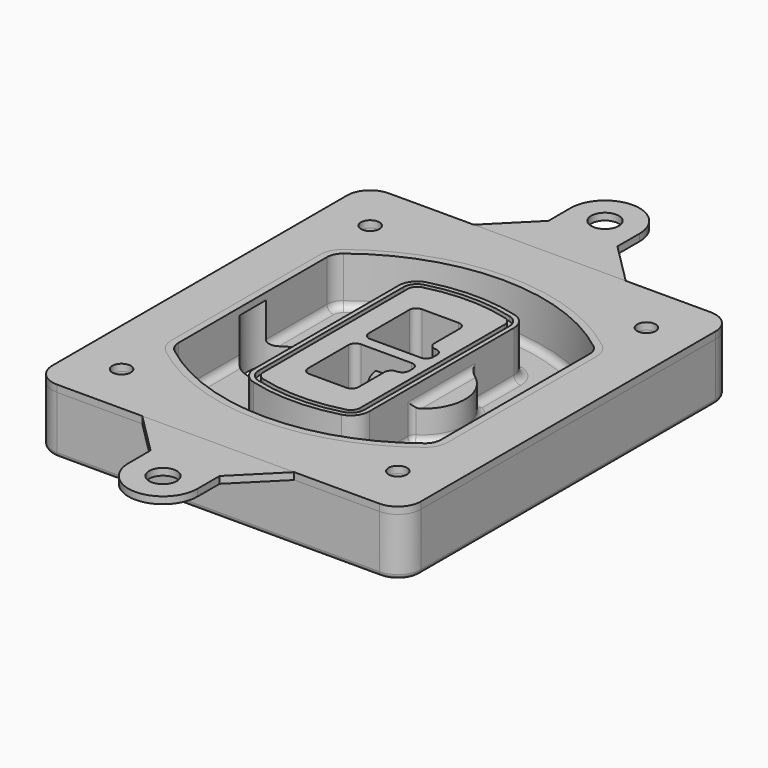
from build123d import *

# Parameters (mm, degrees)
F0_R      = 4
F1_DEPTH  = 25
F2_DEPTH  = 3
F3_DEPTH  = 18
F5_DEPTH  = 21
F6_DEPTH  = 2
F8_DEPTH  = 20
F9_DEPTH  = 16
F10_DEPTH = 25
F7_R      = 6
F7_R_2    = 4
F11_DEPTH = 6
F13_DEPTH = 9
F14_R     = 3
F15_R     = 2
F17_DEPTH = 3
F16_R     = 6
F18_DEPTH = 3


with BuildPart() as f1:
    # F0 (on Top) → F1 (new body)
    with BuildSketch(Plane.XY):
        with BuildLine():
            ThreePointArc((-80, -80), (-77.0710678119, -87.0710678119), (-70, -90))
            Line((-70, -90), (70, -90))
            ThreePointArc((70, -90), (77.0710678119, -87.0710678119), (80, -80))
            Line((80, -80), (80, 80))
            ThreePointArc((80, 80), (77.0710678119, 87.0710678119), (70, 90))
            Line((70, 90), (-70, 90))
            ThreePointArc((-70, 90), (-77.0710678119, 87.0710678119), (-80, 80))
            Line((-80, 80), (-80, -80))
        make_face()
        with Locations((-60, -67.5)):
            Circle(F0_R, mode=Mode.SUBTRACT)
        with Locations((60, -67.5)):
            Circle(F0_R, mode=Mode.SUBTRACT)
        with Locations((-60, 67.5)):
            Circle(F0_R, mode=Mode.SUBTRACT)
        with BuildLine():
            ThreePointArc((-64, 40.2934422872), (-62.5820384798, 46.4328484224), (-58.6153846154, 51.3286200352))
            ThreePointArc((-58.6153846154, 51.3286200352), (0, 71.5), (58.6153846154, 51.3286200352))
            ThreePointArc((58.6153846154, 51.3286200352), (62.5820384798, 46.4328484224), (64, 40.2934422872))
            Line((64, 40.2934422872), (64, -40.2934422872))
            ThreePointArc((64, -40.2934422872), (62.5820384798, -46.4328484224), (58.6153846154, -51.3286200352))
            ThreePointArc((58.6153846154, -51.3286200352), (0, -71.5), (-58.6153846154, -51.3286200352))
            ThreePointArc((-58.6153846154, -51.3286200352), (-62.5820384798, -46.4328484224), (-64, -40.2934422872))
            Line((-64, -40.2934422872), (-64, 40.2934422872))
        make_face(mode=Mode.SUBTRACT)
        with Locations((60, 67.5)):
            Circle(F0_R, mode=Mode.SUBTRACT)
        with BuildLine():
            ThreePointArc((58.6153846154, 51.3286200352), (0, 71.5), (-58.6153846154, 51.3286200352))
            ThreePointArc((-58.6153846154, 51.3286200352), (-62.5820384798, 46.4328484224), (-64, 40.2934422872))
            Line((-64, 40.2934422872), (-64, -40.2934422872))
            ThreePointArc((-64, -40.2934422872), (-62.5820384798, -46.4328484224), (-58.6153846154, -51.3286200352))
            ThreePointArc((-58.6153846154, -51.3286200352), (0, -71.5), (58.6153846154, -51.3286200352))
            ThreePointArc((58.6153846154, -51.3286200352), (62.5820384798, -46.4328484224), (64, -40.2934422872))
            Line((64, -40.2934422872), (64, 40.2934422872))
            ThreePointArc((64, 40.2934422872), (62.5820384798, 46.4328484224), (58.6153846154, 51.3286200352))
        make_face()
        with BuildLine():
            Line((-60, -40.2934422872), (-60, 40.2934422872))
            ThreePointArc((-60, 40.2934422872), (-58.9871703427, 44.6787323838), (-56.1538461538, 48.1757121072))
            ThreePointArc((-56.1538461538, 48.1757121072), (0, 67.5), (56.1538461538, 48.1757121072))
            ThreePointArc((56.1538461538, 48.1757121072), (58.9871703427, 44.6787323838), (60, 40.2934422872))
            Line((60, 40.2934422872), (60, -40.2934422872))
            ThreePointArc((60, -40.2934422872), (58.9871703427, -44.6787323838), (56.1538461538, -48.1757121072))
            ThreePointArc((56.1538461538, -48.1757121072), (0, -67.5), (-56.1538461538, -48.1757121072))
            ThreePointArc((-56.1538461538, -48.1757121072), (-58.9871703427, -44.6787323838), (-60, -40.2934422872))
        make_face(mode=Mode.SUBTRACT)
        with BuildLine():
            ThreePointArc((-56.1538461538, 48.1757121072), (-58.9871703427, 44.6787323838), (-60, 40.2934422872))
            Line((-60, 40.2934422872), (-60, -40.2934422872))
            ThreePointArc((-60, -40.2934422872), (-58.9871703427, -44.6787323838), (-56.1538461538, -48.1757121072))
            ThreePointArc((-56.1538461538, -48.1757121072), (0, -67.5), (56.1538461538, -48.1757121072))
            ThreePointArc((56.1538461538, -48.1757121072), (58.9871703427, -44.6787323838), (60, -40.2934422872))
            Line((60, -40.2934422872), (60, 40.2934422872))
            ThreePointArc((60, 40.2934422872), (58.9871703427, 44.6787323838), (56.1538461538, 48.1757121072))
            ThreePointArc((56.1538461538, 48.1757121072), (0, 67.5), (-56.1538461538, 48.1757121072))
        make_face()
        with BuildLine():
            ThreePointArc((54.3076923077, 45.8110311612), (56.2910192399, 43.3631453548), (57, 40.2934422872))
            Line((57, 40.2934422872), (57, -40.2934422872))
            ThreePointArc((57, -40.2934422872), (56.2910192399, -43.3631453548), (54.3076923077, -45.8110311612))
            ThreePointArc((54.3076923077, -45.8110311612), (0, -64.5), (-54.3076923077, -45.8110311612))
            ThreePointArc((-54.3076923077, -45.8110311612), (-56.2910192399, -43.3631453548), (-57, -40.2934422872))
            Line((-57, -40.2934422872), (-57, 40.2934422872))
            ThreePointArc((-57, 40.2934422872), (-56.2910192399, 43.3631453548), (-54.3076923077, 45.8110311612))
            ThreePointArc((-54.3076923077, 45.8110311612), (0, 64.5), (54.3076923077, 45.8110311612))
        make_face(mode=Mode.SUBTRACT)
        with BuildLine():
            Line((57, -40.2934422872), (57, 40.2934422872))
            ThreePointArc((57, 40.2934422872), (56.2910192399, 43.3631453548), (54.3076923077, 45.8110311612))
            ThreePointArc((54.3076923077, 45.8110311612), (0, 64.5), (-54.3076923077, 45.8110311612))
            ThreePointArc((-54.3076923077, 45.8110311612), (-56.2910192399, 43.3631453548), (-57, 40.2934422872))
            Line((-57, 40.2934422872), (-57, -40.2934422872))
            ThreePointArc((-57, -40.2934422872), (-56.2910192399, -43.3631453548), (-54.3076923077, -45.8110311612))
            ThreePointArc((-54.3076923077, -45.8110311612), (0, -64.5), (54.3076923077, -45.8110311612))
            ThreePointArc((54.3076923077, -45.8110311612), (56.2910192399, -43.3631453548), (57, -40.2934422872))
        make_face()
    extrude(amount=-F1_DEPTH)

    # F0 (on Top) → F2 (join)
    with BuildSketch(Plane.XY):
        with BuildLine():
            ThreePointArc((-56.1538461538, 48.1757121072), (-58.9871703427, 44.6787323838), (-60, 40.2934422872))
            Line((-60, 40.2934422872), (-60, -40.2934422872))
            ThreePointArc((-60, -40.2934422872), (-58.9871703427, -44.6787323838), (-56.1538461538, -48.1757121072))
            ThreePointArc((-56.1538461538, -48.1757121072), (0, -67.5), (56.1538461538, -48.1757121072))
            ThreePointArc((56.1538461538, -48.1757121072), (58.9871703427, -44.6787323838), (60, -40.2934422872))
            Line((60, -40.2934422872), (60, 40.2934422872))
            ThreePointArc((60, 40.2934422872), (58.9871703427, 44.6787323838), (56.1538461538, 48.1757121072))
            ThreePointArc((56.1538461538, 48.1757121072), (0, 67.5), (-56.1538461538, 48.1757121072))
        make_face()
        with BuildLine():
            ThreePointArc((54.3076923077, 45.8110311612), (56.2910192399, 43.3631453548), (57, 40.2934422872))
            Line((57, 40.2934422872), (57, -40.2934422872))
            ThreePointArc((57, -40.2934422872), (56.2910192399, -43.3631453548), (54.3076923077, -45.8110311612))
            ThreePointArc((54.3076923077, -45.8110311612), (0, -64.5), (-54.3076923077, -45.8110311612))
            ThreePointArc((-54.3076923077, -45.8110311612), (-56.2910192399, -43.3631453548), (-57, -40.2934422872))
            Line((-57, -40.2934422872), (-57, 40.2934422872))
            ThreePointArc((-57, 40.2934422872), (-56.2910192399, 43.3631453548), (-54.3076923077, 45.8110311612))
            ThreePointArc((-54.3076923077, 45.8110311612), (0, 64.5), (54.3076923077, 45.8110311612))
        make_face(mode=Mode.SUBTRACT)
    extrude(amount=F2_DEPTH)

    # F0 (on Top) → F3 (cut)
    with BuildSketch(Plane.XY):
        with BuildLine():
            Line((57, -40.2934422872), (57, 40.2934422872))
            ThreePointArc((57, 40.2934422872), (56.2910192399, 43.3631453548), (54.3076923077, 45.8110311612))
            ThreePointArc((54.3076923077, 45.8110311612), (0, 64.5), (-54.3076923077, 45.8110311612))
            ThreePointArc((-54.3076923077, 45.8110311612), (-56.2910192399, 43.3631453548), (-57, 40.2934422872))
            Line((-57, 40.2934422872), (-57, -40.2934422872))
            ThreePointArc((-57, -40.2934422872), (-56.2910192399, -43.3631453548), (-54.3076923077, -45.8110311612))
            ThreePointArc((-54.3076923077, -45.8110311612), (0, -64.5), (54.3076923077, -45.8110311612))
            ThreePointArc((54.3076923077, -45.8110311612), (56.2910192399, -43.3631453548), (57, -40.2934422872))
        make_face()
    extrude(amount=-F3_DEPTH, mode=Mode.SUBTRACT)

    # F4 (on face) → F5 (join, through all)
    with BuildSketch(Plane.XY.offset(3)):
        with BuildLine():
            ThreePointArc((-25, -39.2465276821), (-23.3511545998, -44.1109737193), (-19.0842911877, -46.9702398883))
            ThreePointArc((-19.0842911877, -46.9702398883), (0, -49.5), (19.0842911877, -46.9702398883))
            ThreePointArc((19.0842911877, -46.9702398883), (23.3511545998, -44.1109737193), (25, -39.2465276821))
            Line((25, -39.2465276821), (25, 39.2465276821))
            ThreePointArc((25, 39.2465276821), (23.3511545998, 44.1109737193), (19.0842911877, 46.9702398883))
            ThreePointArc((19.0842911877, 46.9702398883), (0, 49.5), (-19.0842911877, 46.9702398883))
            ThreePointArc((-19.0842911877, 46.9702398883), (-23.3511545998, 44.1109737193), (-25, 39.2465276821))
            Line((-25, 39.2465276821), (-25, -39.2465276821))
        make_face()
        with BuildLine():
            ThreePointArc((18.5632183908, 45.0393118368), (21.7633659499, 42.89486221), (23, 39.2465276821))
            Line((23, 39.2465276821), (23, -39.2465276821))
            ThreePointArc((23, -39.2465276821), (21.7633659499, -42.89486221), (18.5632183908, -45.0393118368))
            ThreePointArc((18.5632183908, -45.0393118368), (0, -47.5), (-18.5632183908, -45.0393118368))
            ThreePointArc((-18.5632183908, -45.0393118368), (-21.7633659499, -42.89486221), (-23, -39.2465276821))
            Line((-23, -39.2465276821), (-23, 39.2465276821))
            ThreePointArc((-23, 39.2465276821), (-21.7633659499, 42.89486221), (-18.5632183908, 45.0393118368))
            ThreePointArc((-18.5632183908, 45.0393118368), (0, 47.5), (18.5632183908, 45.0393118368))
        make_face(mode=Mode.SUBTRACT)
        with BuildLine():
            Line((23, -39.2465276821), (23, 39.2465276821))
            ThreePointArc((23, 39.2465276821), (21.7633659499, 42.89486221), (18.5632183908, 45.0393118368))
            ThreePointArc((18.5632183908, 45.0393118368), (0, 47.5), (-18.5632183908, 45.0393118368))
            ThreePointArc((-18.5632183908, 45.0393118368), (-21.7633659499, 42.89486221), (-23, 39.2465276821))
            Line((-23, 39.2465276821), (-23, -39.2465276821))
            ThreePointArc((-23, -39.2465276821), (-21.7633659499, -42.89486221), (-18.5632183908, -45.0393118368))
            ThreePointArc((-18.5632183908, -45.0393118368), (0, -47.5), (18.5632183908, -45.0393118368))
            ThreePointArc((18.5632183908, -45.0393118368), (21.7633659499, -42.89486221), (23, -39.2465276821))
        make_face()
        with BuildLine():
            ThreePointArc((18.0421455939, 43.1083837852), (20.1755772999, 41.6787507007), (21, 39.2465276821))
            Line((21, 39.2465276821), (21, -39.2465276821))
            ThreePointArc((21, -39.2465276821), (20.1755772999, -41.6787507007), (18.0421455939, -43.1083837852))
            ThreePointArc((18.0421455939, -43.1083837852), (0, -45.5), (-18.0421455939, -43.1083837852))
            ThreePointArc((-18.0421455939, -43.1083837852), (-20.1755772999, -41.6787507007), (-21, -39.2465276821))
            Line((-21, -39.2465276821), (-21, 39.2465276821))
            ThreePointArc((-21, 39.2465276821), (-20.1755772999, 41.6787507007), (-18.0421455939, 43.1083837852))
            ThreePointArc((-18.0421455939, 43.1083837852), (0, 45.5), (18.0421455939, 43.1083837852))
        make_face(mode=Mode.SUBTRACT)
        with BuildLine():
            Line((21, -39.2465276821), (21, 39.2465276821))
            ThreePointArc((21, 39.2465276821), (20.1755772999, 41.6787507007), (18.0421455939, 43.1083837852))
            ThreePointArc((18.0421455939, 43.1083837852), (0, 45.5), (-18.0421455939, 43.1083837852))
            ThreePointArc((-18.0421455939, 43.1083837852), (-20.1755772999, 41.6787507007), (-21, 39.2465276821))
            Line((-21, 39.2465276821), (-21, -39.2465276821))
            ThreePointArc((-21, -39.2465276821), (-20.1755772999, -41.6787507007), (-18.0421455939, -43.1083837852))
            ThreePointArc((-18.0421455939, -43.1083837852), (0, -45.5), (18.0421455939, -43.1083837852))
            ThreePointArc((18.0421455939, -43.1083837852), (20.1755772999, -41.6787507007), (21, -39.2465276821))
        make_face()
        with BuildLine():
            Line((-8, -2.5), (14, -2.5))
            ThreePointArc((14, -2.5), (16.1213203436, -3.3786796564), (17, -5.5))
            Line((17, -5.5), (17, -7.5))
            ThreePointArc((17, -7.5), (16.1213203436, -9.6213203436), (14, -10.5))
            ThreePointArc((14, -10.5), (11.8786796564, -11.3786796564), (11, -13.5))
            Line((11, -13.5), (11, -27.5))
            ThreePointArc((11, -27.5), (10.1213203436, -29.6213203436), (8, -30.5))
            Line((8, -30.5), (-8, -30.5))
            ThreePointArc((-8, -30.5), (-10.1213203436, -29.6213203436), (-11, -27.5))
            Line((-11, -27.5), (-11, -5.5))
            ThreePointArc((-11, -5.5), (-10.1213203436, -3.3786796564), (-8, -2.5))
        make_face(mode=Mode.SUBTRACT)
        with BuildLine():
            ThreePointArc((-8, 2.5), (-10.1213203436, 3.3786796564), (-11, 5.5))
            Line((-11, 5.5), (-11, 27.5))
            ThreePointArc((-11, 27.5), (-10.1213203436, 29.6213203436), (-8, 30.5))
            Line((-8, 30.5), (8, 30.5))
            ThreePointArc((8, 30.5), (10.1213203436, 29.6213203436), (11, 27.5))
            Line((11, 27.5), (11, 13.5))
            ThreePointArc((11, 13.5), (11.8786796564, 11.3786796564), (14, 10.5))
            ThreePointArc((14, 10.5), (16.1213203436, 9.6213203436), (17, 7.5))
            Line((17, 7.5), (17, 5.5))
            ThreePointArc((17, 5.5), (16.1213203436, 3.3786796564), (14, 2.5))
            Line((14, 2.5), (-8, 2.5))
        make_face(mode=Mode.SUBTRACT)
    extrude(amount=-F5_DEPTH)

    # F4 (on face) → F6 (cut)
    with BuildSketch(Plane.XY.offset(3)):
        with BuildLine():
            Line((23, -39.2465276821), (23, 39.2465276821))
            ThreePointArc((23, 39.2465276821), (21.7633659499, 42.89486221), (18.5632183908, 45.0393118368))
            ThreePointArc((18.5632183908, 45.0393118368), (0, 47.5), (-18.5632183908, 45.0393118368))
            ThreePointArc((-18.5632183908, 45.0393118368), (-21.7633659499, 42.89486221), (-23, 39.2465276821))
            Line((-23, 39.2465276821), (-23, -39.2465276821))
            ThreePointArc((-23, -39.2465276821), (-21.7633659499, -42.89486221), (-18.5632183908, -45.0393118368))
            ThreePointArc((-18.5632183908, -45.0393118368), (0, -47.5), (18.5632183908, -45.0393118368))
            ThreePointArc((18.5632183908, -45.0393118368), (21.7633659499, -42.89486221), (23, -39.2465276821))
        make_face()
        with BuildLine():
            ThreePointArc((18.0421455939, 43.1083837852), (20.1755772999, 41.6787507007), (21, 39.2465276821))
            Line((21, 39.2465276821), (21, -39.2465276821))
            ThreePointArc((21, -39.2465276821), (20.1755772999, -41.6787507007), (18.0421455939, -43.1083837852))
            ThreePointArc((18.0421455939, -43.1083837852), (0, -45.5), (-18.0421455939, -43.1083837852))
            ThreePointArc((-18.0421455939, -43.1083837852), (-20.1755772999, -41.6787507007), (-21, -39.2465276821))
            Line((-21, -39.2465276821), (-21, 39.2465276821))
            ThreePointArc((-21, 39.2465276821), (-20.1755772999, 41.6787507007), (-18.0421455939, 43.1083837852))
            ThreePointArc((-18.0421455939, 43.1083837852), (0, 45.5), (18.0421455939, 43.1083837852))
        make_face(mode=Mode.SUBTRACT)
    extrude(amount=-F6_DEPTH, mode=Mode.SUBTRACT)

    # F7 (on face) → F8 (join)
    with BuildSketch(Plane(origin=(0, 0, -25), x_dir=(1, 0, 0), z_dir=(0, 0, -1))):
        with BuildLine():
            ThreePointArc((3.28842436, 0), (16.7567035675, 13.4682792075), (30.224982775, 0))
            Line((30.224982775, 0), (35.224982775, 0))
            ThreePointArc((35.224982775, 0), (16.7567035675, 18.4682792075), (-1.71157564, 0))
            Line((-1.71157564, 0), (3.28842436, 0))
        make_face()
        with BuildLine():
            Line((3.28842436, 0), (30.224982775, 0))
            ThreePointArc((30.224982775, 0), (16.7567035675, 13.4682792075), (3.28842436, 0))
        make_face()
        with BuildLine():
            ThreePointArc((3.28842436, 0), (16.7567035675, -13.4682792075), (30.224982775, 0))
            Line((30.224982775, 0), (3.28842436, 0))
        make_face()
        with BuildLine():
            Line((35.224982775, 0), (30.224982775, 0))
            ThreePointArc((30.224982775, 0), (16.7567035675, -13.4682792075), (3.28842436, 0))
            Line((3.28842436, 0), (-1.71157564, 0))
            ThreePointArc((-1.71157564, 0), (16.7567035675, -18.4682792075), (35.224982775, 0))
        make_face()
    extrude(amount=-F8_DEPTH)

    # F7 (on face) → F9 (cut)
    with BuildSketch(Plane(origin=(0, 0, -25), x_dir=(1, 0, 0), z_dir=(0, 0, -1))):
        with BuildLine():
            Line((3.28842436, 0), (30.224982775, 0))
            ThreePointArc((30.224982775, 0), (16.7567035675, 13.4682792075), (3.28842436, 0))
        make_face()
        with BuildLine():
            ThreePointArc((3.28842436, 0), (16.7567035675, -13.4682792075), (30.224982775, 0))
            Line((30.224982775, 0), (3.28842436, 0))
        make_face()
    extrude(amount=-F9_DEPTH, mode=Mode.SUBTRACT)

    # F7 (on face) → F10 (cut)
    with BuildSketch(Plane(origin=(0, 0, -25), x_dir=(1, 0, 0), z_dir=(0, 0, -1))):
        with BuildLine():
            Line((-59.0318229325, 0), (-32.0952645175, 0))
            ThreePointArc((-32.0952645175, 0), (-45.563543725, 13.4682792075), (-59.0318229325, 0))
        make_face()
        with BuildLine():
            ThreePointArc((-59.0318229325, 0), (-45.563543725, -13.4682792075), (-32.0952645175, 0))
            Line((-32.0952645175, 0), (-59.0318229325, 0))
        make_face()
    extrude(amount=-F10_DEPTH, mode=Mode.SUBTRACT)

    # F7 (on face) → F11 (cut)
    with BuildSketch(Plane(origin=(0, 0, -25), x_dir=(1, 0, 0), z_dir=(0, 0, -1))):
        with Locations((60, -67.5)):
            Circle(F7_R)
        with Locations((60, -67.5)):
            Circle(F7_R_2, mode=Mode.SUBTRACT)
        with Locations((60, -67.5)):
            Circle(F7_R)
        with Locations((60, -67.5)):
            Circle(F7_R_2, mode=Mode.SUBTRACT)
        with Locations((-60, -67.5)):
            Circle(F7_R)
        with Locations((-60, -67.5)):
            Circle(F7_R_2, mode=Mode.SUBTRACT)
        with Locations((-60, -67.5)):
            Circle(F7_R)
        with Locations((-60, -67.5)):
            Circle(F7_R_2, mode=Mode.SUBTRACT)
        with Locations((-60, 67.5)):
            Circle(F7_R)
        with Locations((-60, 67.5)):
            Circle(F7_R_2, mode=Mode.SUBTRACT)
        with Locations((-60, 67.5)):
            Circle(F7_R)
        with Locations((-60, 67.5)):
            Circle(F7_R_2, mode=Mode.SUBTRACT)
        with Locations((60, 67.5)):
            Circle(F7_R)
        with Locations((60, 67.5)):
            Circle(F7_R_2, mode=Mode.SUBTRACT)
        with Locations((60, 67.5)):
            Circle(F7_R)
        with Locations((60, 67.5)):
            Circle(F7_R_2, mode=Mode.SUBTRACT)
    extrude(amount=-F11_DEPTH, mode=Mode.SUBTRACT)

    # F12 (on face) → F13 (cut, through all)
    with BuildSketch(Plane(origin=(0, 0, -9), x_dir=(1, 0, 0), z_dir=(0, 0, -1))):
        with BuildLine():
            Line((11, 13.5), (11, 17.5481537753))
            ThreePointArc((11, 17.5481537753), (2.5696536419, 11.8239143813), (-1.5415842455, 2.5))
            Line((-1.5415842455, 2.5), (3.5224848595, 2.5))
            ThreePointArc((3.5224848595, 2.5), (6.1857188154, 8.3455872281), (11.2536447004, 12.2927168648))
            ThreePointArc((11.2536447004, 12.2927168648), (11.0640958889, 12.8831798879), (11, 13.5))
        make_face()
        with BuildLine():
            ThreePointArc((11.2536447004, -12.2927168648), (6.1857188154, -8.3455872281), (3.5224848595, -2.5))
            Line((3.5224848595, -2.5), (-1.5415842455, -2.5))
            ThreePointArc((-1.5415842455, -2.5), (2.5696536419, -11.8239143813), (11, -17.5481537753))
            Line((11, -17.5481537753), (11, -13.5))
            ThreePointArc((11, -13.5), (11.0640958889, -12.8831798879), (11.2536447004, -12.2927168648))
        make_face()
        with BuildLine():
            ThreePointArc((11.2536447004, 12.2927168648), (6.1857188154, 8.3455872281), (3.5224848595, 2.5))
            Line((3.5224848595, 2.5), (14, 2.5))
            ThreePointArc((14, 2.5), (16.1213203436, 3.3786796564), (17, 5.5))
            Line((17, 5.5), (17, 7.5))
            ThreePointArc((17, 7.5), (16.1213203436, 9.6213203436), (14, 10.5))
            ThreePointArc((14, 10.5), (12.3601599782, 10.9878446101), (11.2536447004, 12.2927168648))
        make_face()
        with BuildLine():
            Line((14, -2.5), (3.5224848595, -2.5))
            ThreePointArc((3.5224848595, -2.5), (6.1857188154, -8.3455872281), (11.2536447004, -12.2927168648))
            ThreePointArc((11.2536447004, -12.2927168648), (12.3601599782, -10.9878446101), (14, -10.5))
            ThreePointArc((14, -10.5), (16.1213203436, -9.6213203436), (17, -7.5))
            Line((17, -7.5), (17, -5.5))
            ThreePointArc((17, -5.5), (16.1213203436, -3.3786796564), (14, -2.5))
        make_face()
    extrude(amount=F13_DEPTH, mode=Mode.SUBTRACT)

    # F14
    f14_edges = [f1.edges().sort_by_distance(p)[0] for p in [
        (-57, -23.703476, -18),
        (-57, 23.703476, -18),
        (25, 0, -5),
        (25, 16.526506, -11.5),
        (25, -16.526506, -11.5),
        (25, -27.886517, -18),
        (35.224983, 0, -18),
    ]]
    fillet(f14_edges, radius=F14_R)

    # F15
    f15_edges = [f1.edges().sort_by_distance(p)[0] for p in [
        (0, -90, -25),
    ]]
    fillet(f15_edges, radius=F15_R)


with BuildPart() as f17:
    # F16 (on face) → F17 (new body, through all)
    with BuildSketch(Plane.XY):
        with BuildLine():
            Line((-33, 90), (0, 90))
            Line((0, 90), (33, 90))
            Line((33, 90), (15, 108))
            Line((15, 108), (15, 120))
            ThreePointArc((15, 120), (0, 135), (-15, 120))
            Line((-15, 120), (-15, 108))
            Line((-15, 108), (-33, 90))
        make_face()
        with BuildLine():
            ThreePointArc((0, 114), (-4.2426406871, 124.2426406871), (6, 120))
            ThreePointArc((6, 120), (4.2426406871, 115.7573593129), (0, 114))
        make_face(mode=Mode.SUBTRACT)
    extrude(amount=F17_DEPTH)


with BuildPart() as f17b:
    # F16 (on face) → F17, piece 2 (new body, through all)
    with BuildSketch(Plane.XY):
        with BuildLine():
            Line((15, -108), (33, -90))
            Line((33, -90), (-33, -90))
            Line((-33, -90), (-15, -108))
            Line((-15, -108), (-15, -120))
            ThreePointArc((-15, -120), (0, -135), (15, -120))
            Line((15, -120), (15, -108))
        make_face()
        with Locations((0, -120)):
            Circle(F16_R, mode=Mode.SUBTRACT)
    extrude(amount=F17_DEPTH)


with BuildPart() as f18:
    # F18 (new, through all): a face of the model
    f18_faces = [f1.part.faces().sort_by_distance(p)[0] for p in [
        (-75.3681291753, -85.3681291753, 0),
    ]]
    extrude(f18_faces, amount=F18_DEPTH)


solid = Compound([f1.part, f17.part, f17b.part, f18.part])
